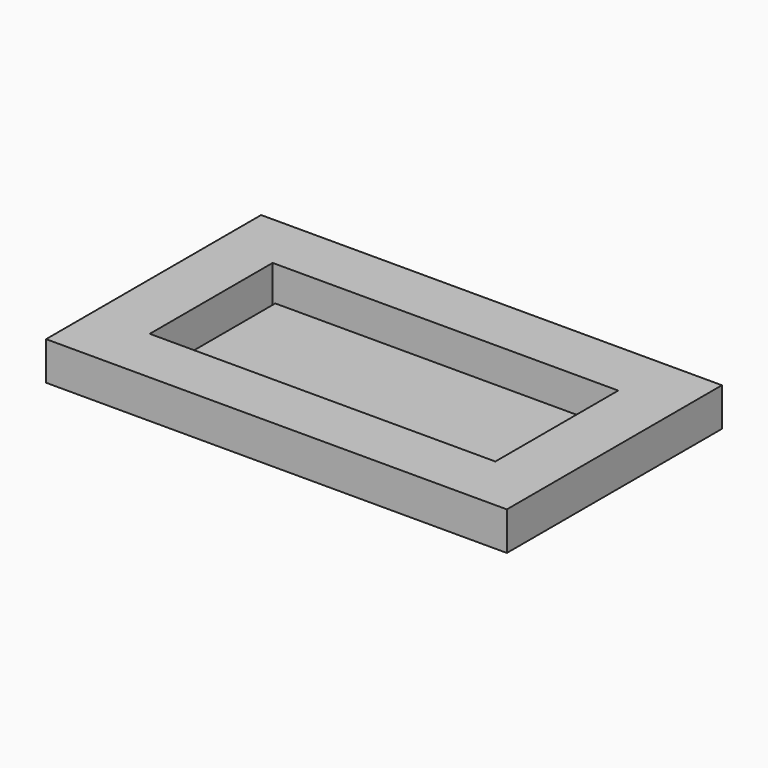
from build123d import *

# Parameters (mm, degrees)
F0_W     = 120
F0_H     = 70
F1_DEPTH = 10
F3_DEPTH = 25
F4_W     = 90
F4_H     = 40
F6_DEPTH = 1
F5_W     = 90
F5_H     = 40
F7_DEPTH = 1


with BuildPart() as f1:
    # F0 (on Top) → F1 (new body)
    with BuildSketch(Plane.XY):
        with Locations((60, 35)):
            Rectangle(F0_W, F0_H)
    extrude(amount=F1_DEPTH)

    # F2 (on face) → F3 (cut)
    with BuildSketch(Plane.XY.offset(10)):
        Polygon((15, 15), (18.500216, 15), (105, 15), (105, 55), (15, 55), align=None)
    extrude(amount=-F3_DEPTH, mode=Mode.SUBTRACT)

    # F4 (on Top) → F6 (join)
    with BuildSketch(Plane.XY):
        with Locations((60.763003, 34.897401)):
            Rectangle(F4_W, F4_H)
    extrude(amount=F6_DEPTH)

    # F5 (on face) → F7 (join)
    with BuildSketch(Plane.XY):
        with Locations((60.763003, 34.897401)):
            Rectangle(F5_W, F5_H)
    extrude(amount=F7_DEPTH)


with BuildPart() as f8_1:
    # F8: copy of F1
    add(f1.part)


solid = Compound([f1.part, f8_1.part])
